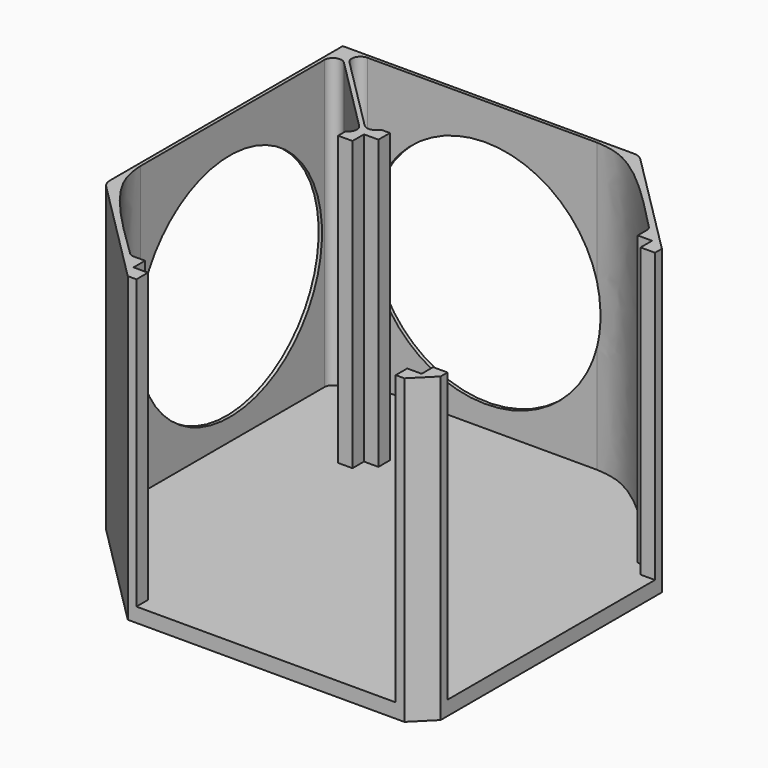
from build123d import *

# Parameters (mm, degrees)
F0_W      = 110
F0_H      = 110
F1_DEPTH  = 5
F3_DEPTH  = 100
F4_SIZE   = 7
F6_DEPTH  = 5
F8_DEPTH  = 100
F9_R      = 3
F10_R     = 3
F11_R     = 5
F12_R     = 40
F13_DEPTH = 2
F14_R     = 40
F15_DEPTH = 2


with BuildPart() as f1:
    # F0 (on Top) → F1 (new body)
    with BuildSketch(Plane.XY):
        Rectangle(F0_W, F0_H)
    extrude(amount=F1_DEPTH)

    # F2 (on face) → F3 (join)
    with BuildSketch(Plane.XY.offset(5)):
        Polygon((-55, -45), (-55, -55), (-45, -55), (-45, -50), (-50, -50), (-50, -45), align=None)
        Polygon((45, -50), (45, -55), (55, -55), (55, -45), (50, -45), (50, -50), align=None)
        Polygon((50, 45), (55, 45), (55, 55), (45, 55), (45, 50), (50, 50), align=None)
        Polygon((-55, 45), (-50, 45), (-50, 50), (-45, 50), (-45, 55), (-55, 55), align=None)
    extrude(amount=F3_DEPTH)

    # F4
    f4_edges = [f1.edges().sort_by_distance(p)[0] for p in [
        (55, -55, 52.5),
        (55, 55, 52.5),
        (-55, -55, 52.5),
        (-55, 55, 52.5),
    ]]
    chamfer(f4_edges, length=F4_SIZE)

    # F5 (on face) → F6 (join)
    with BuildSketch(Plane(origin=(0, 0, 0), x_dir=(1, 0, 0), z_dir=(0, 0, -1))):
        Polygon((-55, -48), (-55, 48), (-86.8553390593, 16.1446609407), (-86.8553390593, -86.8553390593), (16.1446609407, -86.8553390593), (48, -55), (-48, -55), align=None)
    extrude(amount=-F6_DEPTH)

    # F7 (on face) → F8 (join)
    with BuildSketch(Plane.XY.offset(5)):
        with BuildLine():
            Line((-86.8553390593, -16.1446609407), (-55, -48))
            Line((-55, -48), (-55, -45))
            add(Edge.make_bspline(
                [(-55, -45), (-61.680716385, -38.545717713), (-73.8128115293, -26.9133031572), (-84.5587400556, -12.5278182858), (-85.5100929907, -5.3594725865), (-85.6892368288, -2.2746161558)],
                knots=[0, 0, 0, 0, 0.4166944434, 0.7503780711, 1, 1, 1, 1], degree=3))
            Line((-85.6892368288, -2.2746161558), (-85.6892368288, 84.628576657))
            Line((-85.6892368288, 84.628576657), (-52.0303300859, 50.9696699141))
            Line((-52.0303300859, 50.9696699141), (-50.9696699141, 52.0303300859))
            Line((-50.9696699141, 52.0303300859), (-84.628576657, 85.6892368288))
            Line((-84.628576657, 85.6892368288), (2.2746161558, 85.6892368288))
            add(Edge.make_bspline(
                [(45, 55), (38.545717713, 61.680716385), (26.9133031572, 73.8128115293), (12.5278182858, 84.5587400556), (5.3594725865, 85.5100929907), (2.2746161558, 85.6892368288)],
                knots=[0, 0, 0, 0, 0.4166944434, 0.7503780711, 1, 1, 1, 1], degree=3))
            Line((45, 55), (48, 55))
            Line((48, 55), (16.1446609407, 86.8553390593))
            Line((16.1446609407, 86.8553390593), (-86.8553390593, 86.8553390593))
            Line((-86.8553390593, 86.8553390593), (-86.8553390593, -16.1446609407))
        make_face()
    extrude(amount=F8_DEPTH)

    # F9
    f9_edges = [f1.edges().sort_by_distance(p)[0] for p in [
        (-50.96967, 52.03033, 55),
        (-52.03033, 50.96967, 55),
    ]]
    fillet(f9_edges, radius=F9_R)

    # F10
    f10_edges = [f1.edges().sort_by_distance(p)[0] for p in [
        (45, 55, 55),
        (-55, -45, 55),
        (-85.689237, 84.628577, 55),
        (-84.628577, 85.689237, 55),
    ]]
    fillet(f10_edges, radius=F10_R)

    # F11
    f11_edges = [f1.edges().sort_by_distance(p)[0] for p in [
        (-86.855339, -16.144661, 52.5),
        (16.144661, 86.855339, 52.5),
    ]]
    fillet(f11_edges, radius=F11_R)

    # F12 (on face) → F13 (cut)
    with BuildSketch(Plane(origin=(0, 86.8553390593, 0), x_dir=(-1, 0, 0), z_dir=(0, 1, 0))):
        with Locations((36.3908729653, 52.5)):
            Circle(F12_R)
    extrude(amount=-F13_DEPTH, mode=Mode.SUBTRACT)

    # F14 (on face) → F15 (cut)
    with BuildSketch(Plane(origin=(-86.8553390593, 0, 0), x_dir=(0, -1, 0), z_dir=(-1, 0, 0))):
        with Locations((-36.3908729653, 52.5)):
            Circle(F14_R)
    extrude(amount=-F15_DEPTH, mode=Mode.SUBTRACT)


solid = f1.part
